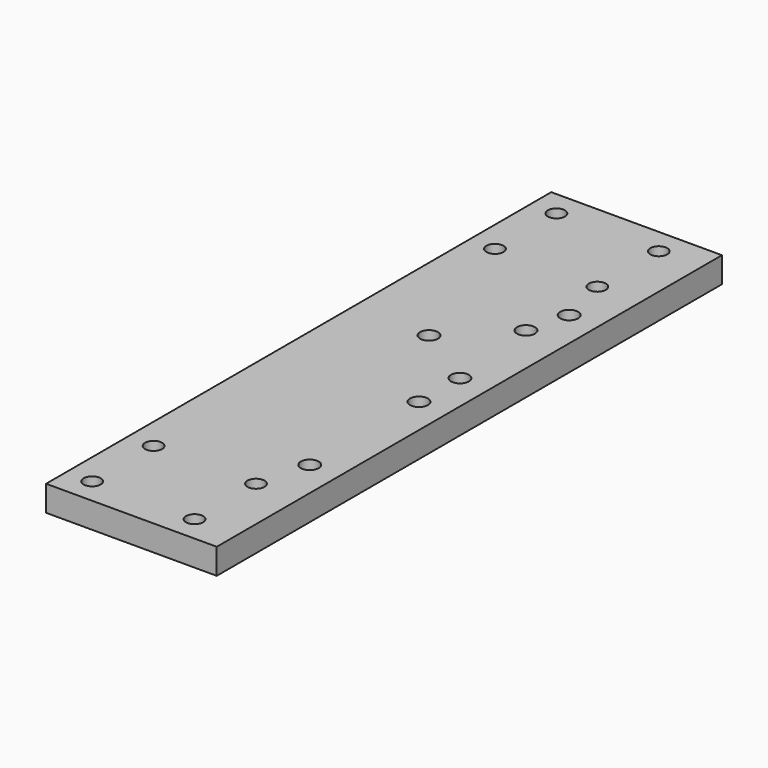
from build123d import *

# Parameters (mm, degrees)
F0_W     = 40
F0_H     = 148
F0_R     = 2
F0_R_2   = 2.1
F1_DEPTH = 6


with BuildPart() as f1:
    # F0 (on Top) → F1 (new body)
    with BuildSketch(Plane.XY):
        with Locations((20, 74)):
            Rectangle(F0_W, F0_H)
        with Locations((6, 6)):
            Circle(F0_R, mode=Mode.SUBTRACT)
        with Locations((6, 24)):
            Circle(F0_R, mode=Mode.SUBTRACT)
        with Locations((30, 6)):
            Circle(F0_R, mode=Mode.SUBTRACT)
        with Locations((30, 24)):
            Circle(F0_R, mode=Mode.SUBTRACT)
        with Locations((33, 36)):
            Circle(F0_R_2, mode=Mode.SUBTRACT)
        with Locations((33, 68)):
            Circle(F0_R_2, mode=Mode.SUBTRACT)
        with Locations((18, 89.69)):
            Circle(F0_R_2, mode=Mode.SUBTRACT)
        with Locations((6, 124)):
            Circle(F0_R, mode=Mode.SUBTRACT)
        with Locations((6, 142)):
            Circle(F0_R, mode=Mode.SUBTRACT)
        with Locations((33, 80)):
            Circle(F0_R_2, mode=Mode.SUBTRACT)
        with Locations((30.62, 102.31)):
            Circle(F0_R_2, mode=Mode.SUBTRACT)
        with Locations((33, 112)):
            Circle(F0_R_2, mode=Mode.SUBTRACT)
        with Locations((30, 124)):
            Circle(F0_R, mode=Mode.SUBTRACT)
        with Locations((30, 142)):
            Circle(F0_R, mode=Mode.SUBTRACT)
    extrude(amount=F1_DEPTH)


solid = f1.part
